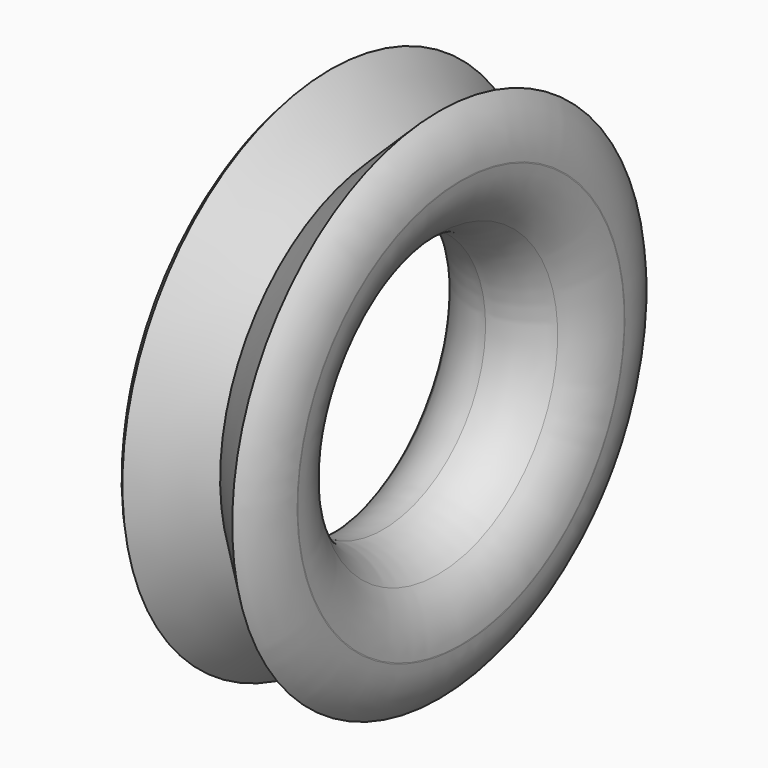
from build123d import *


with BuildPart() as f1:
    # F0 (on Front) → F1 (revolve)
    with BuildSketch(Plane.XZ):
        with BuildLine():
            Line((-3.015464, 28.643063), (-14.102481, 40.005002))
            Line((-14.102481, 40.005002), (-14.29688, 24.131192))
            ThreePointArc((-14.29688, 24.131192), (-8.207439, 25.265121), (-3.015464, 28.643063))
        make_face()
        with BuildLine():
            Line((-14.29688, 24.131192), (-14.102481, 40.005002))
            Line((-14.102481, 40.005002), (-25.464421, 28.917985))
            ThreePointArc((-25.464421, 28.917985), (-20.356727, 25.413908), (-14.29688, 24.131192))
        make_face()
        with BuildLine():
            Line((-29.976291, 40.199401), (-14.102481, 40.005002))
            Line((-14.102481, 40.005002), (-25.189499, 51.366942))
            ThreePointArc((-25.189499, 51.366942), (-28.693576, 46.259247), (-29.976291, 40.199401))
        make_face()
        with BuildLine():
            Line((-25.464421, 28.917985), (-14.102481, 40.005002))
            Line((-14.102481, 40.005002), (-29.976291, 40.199401))
            ThreePointArc((-29.976291, 40.199401), (-28.842362, 34.109959), (-25.464421, 28.917985))
        make_face()
        with BuildLine():
            ThreePointArc((-3.015464, 28.643063), (0.488613, 33.750757), (1.771328, 39.810603))
            Line((1.771328, 39.810603), (-14.102481, 40.005002))
            Line((-14.102481, 40.005002), (-3.015464, 28.643063))
        make_face()
        with BuildLine():
            ThreePointArc((1.771328, 39.810603), (1.772221, 39.907801), (1.772519, 40.005002))
            ThreePointArc((1.772519, 40.005002), (0.601029, 45.990185), (-2.740542, 51.09202))
            Line((-2.740542, 51.09202), (-14.102481, 40.005002))
            Line((-14.102481, 40.005002), (1.771328, 39.810603))
        make_face()
    revolve(axis=Axis((-0.097199, 0, -2.302446), (1, 0, 0)))


solid = f1.part
